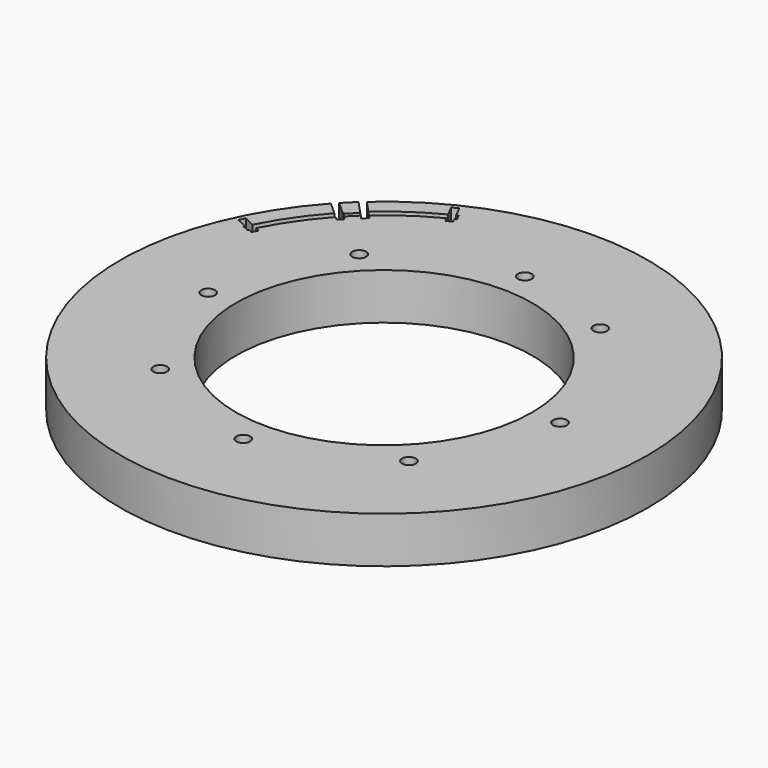
from build123d import *

# Parameters (mm, degrees)
CYLINDER2172_R               = 56
CYLINDER2172_DEPTH           = 7
CYLINDER2171_R               = 51
CYLINDER2171_DEPTH           = 7
BOX1045_W                    = 1.4
BOX1045_H                    = 60
BOX1045_DEPTH                = 7
BOX1045_PLACEMENT_ANGLE      = 19.7
BOX1044_W                    = 1.4
BOX1044_H                    = 60
BOX1044_DEPTH                = 7
BOX1044_PLACEMENT_ANGLE      = 18
CUT727_PLACEMENT_ANGLE       = 45
BOX1038_W                    = 60
BOX1038_H                    = 60
BOX1038_DEPTH                = 7
BOX1038_PLACEMENT_ANGLE      = 1
BOX1036_W                    = 60
BOX1036_H                    = 60
BOX1036_DEPTH                = 7
BOX1036_PLACEMENT_ANGLE      = 2
BOX1043_W                    = 120
BOX1043_H                    = 60
BOX1043_DEPTH                = 7
TUBE090_R                    = 54.4
TUBE090_R_2                  = 53
TUBE090_DEPTH                = 7
BOX1041_W                    = 60
BOX1041_H                    = 60
BOX1041_DEPTH                = 7
BOX1041_PLACEMENT_ANGLE      = 20
BOX1039_W                    = 60
BOX1039_H                    = 60
BOX1039_DEPTH                = 7
BOX1039_PLACEMENT_ANGLE      = 20
BOX1037_W                    = 120
BOX1037_H                    = 60
BOX1037_DEPTH                = 7
TUBE091_R                    = 53.4
TUBE091_R_2                  = 52
TUBE091_DEPTH                = 7
CUT721_PLACEMENT_ANGLE       = 45
CYLINDER2170_R               = 51
CYLINDER2170_DEPTH           = 7
BOX1042_W                    = 1.4
BOX1042_H                    = 60
BOX1042_DEPTH                = 7
BOX1042_PLACEMENT_ANGLE      = 2.7
BOX1040_W                    = 1.4
BOX1040_H                    = 60
BOX1040_DEPTH                = 7
BOX1040_PLACEMENT_ANGLE      = 2
CUT722_PLACEMENT_ANGLE       = 45
CYLINDER2129_R               = 1.5
CYLINDER2129_DEPTH           = 100
CYLINDER2130_R               = 1.5
CYLINDER2130_DEPTH           = 100
CYLINDER2130_PLACEMENT_ANGLE = 145
CYLINDER2131_R               = 1.5
CYLINDER2131_DEPTH           = 100
CYLINDER2132_R               = 1.5
CYLINDER2132_DEPTH           = 100
CYLINDER2132_PLACEMENT_ANGLE = 225
CYLINDER2133_R               = 1.5
CYLINDER2133_DEPTH           = 100
CYLINDER2134_R               = 1.5
CYLINDER2134_DEPTH           = 100
CYLINDER2134_PLACEMENT_ANGLE = 45
CYLINDER2127_R               = 1.5
CYLINDER2127_DEPTH           = 100
CYLINDER2128_R               = 1.5
CYLINDER2128_DEPTH           = 100
CYLINDER2128_PLACEMENT_ANGLE = 45
TUBE092_R                    = 57
TUBE092_R_2                  = 32
TUBE092_DEPTH                = 10


with BuildPart() as obj1:
    # Cylinder2172 → Cylinder2172 (new body)
    with BuildSketch(Plane.XY.offset(45)):
        Circle(CYLINDER2172_R)
    extrude(amount=CYLINDER2172_DEPTH)


with BuildPart() as obj2:
    # Cylinder2171 → Cylinder2171 (new body)
    with BuildSketch(Plane.XY.offset(-22)):
        Circle(CYLINDER2171_R)
    extrude(amount=CYLINDER2171_DEPTH)


with BuildPart() as krychle1045:
    # Box1045 → Box1045 (new body)
    with BuildSketch(Plane.XY):
        with Locations((0.7, 30)):
            Rectangle(BOX1045_W, BOX1045_H)
    extrude(amount=BOX1045_DEPTH)


with BuildPart() as krychle1045_1:
    # Box1045 placement: moved
    add(krychle1045.part.moved(Location((0, 0, -22))).rotate(Axis((0, 0, -22), (0, 0, 1)), BOX1045_PLACEMENT_ANGLE))


with BuildPart() as common:
    # Box1044 → Box1044 (new body)
    with BuildSketch(Plane.XY):
        with Locations((0.7, 30)):
            Rectangle(BOX1044_W, BOX1044_H)
    extrude(amount=BOX1044_DEPTH)


with BuildPart() as common_1:
    # Box1044 placement: moved
    add(common.part.moved(Location((0, 0, -22))).rotate(Axis((0, 0, -22), (0, 0, -1)), BOX1044_PLACEMENT_ANGLE))

    # Compound1133: union Krychle1045
    add(krychle1045_1.part)

    # Cut727: cut obj2
    add(obj2.part, mode=Mode.SUBTRACT)


with BuildPart() as common_2:
    # Cut727 placement: moved
    add(common_1.part.moved(Location((0, 0, 67))).rotate(Axis((0, 0, 67), (0, 0, 1)), CUT727_PLACEMENT_ANGLE))

    # Common: intersect obj1
    add(obj1.part, mode=Mode.INTERSECT)


with BuildPart() as krychle1038:
    # Box1038 → Box1038 (new body)
    with BuildSketch(Plane.XY):
        with Locations((30, 30)):
            Rectangle(BOX1038_W, BOX1038_H)
    extrude(amount=BOX1038_DEPTH)


with BuildPart() as krychle1038_1:
    # Box1038 placement: moved
    add(krychle1038.part.moved(Location((-59.990862, -1.047144, -22))).rotate(Axis((-59.990862, -1.047144, -22), (0, 0, 1)), BOX1038_PLACEMENT_ANGLE))


with BuildPart() as compound1130:
    # Box1036 → Box1036 (new body)
    with BuildSketch(Plane.XY):
        with Locations((30, 30)):
            Rectangle(BOX1036_W, BOX1036_H)
    extrude(amount=BOX1036_DEPTH)


with BuildPart() as compound1130_1:
    # Box1036 placement: moved
    add(compound1130.part.moved(Location((0, 0, -22))).rotate(Axis((0, 0, -22), (0, 0, -1)), BOX1036_PLACEMENT_ANGLE))

    # Compound1130: union Krychle1038
    add(krychle1038_1.part)


with BuildPart() as krychle1043:
    # Box1043 → Box1043 (new body)
    with BuildSketch(Plane(origin=(-60, -60, -22), x_dir=(1, 0, 0), z_dir=(0, 0, 1))):
        with Locations((60, 30)):
            Rectangle(BOX1043_W, BOX1043_H)
    extrude(amount=BOX1043_DEPTH)


with BuildPart() as cut723:
    # Tube090 → Tube090 (new body)
    with BuildSketch(Plane.XY.offset(-22)):
        Circle(TUBE090_R)
        Circle(TUBE090_R_2, mode=Mode.SUBTRACT)
    extrude(amount=TUBE090_DEPTH)

    # Cut726: cut Krychle1043
    add(krychle1043.part, mode=Mode.SUBTRACT)

    # Cut723: cut Compound1130
    add(compound1130_1.part, mode=Mode.SUBTRACT)


with BuildPart() as cut723_1:
    # Cut723 placement: moved
    add(cut723.part.moved(Location((0, 0, -7))))


with BuildPart() as krychle1041:
    # Box1041 → Box1041 (new body)
    with BuildSketch(Plane.XY):
        with Locations((30, 30)):
            Rectangle(BOX1041_W, BOX1041_H)
    extrude(amount=BOX1041_DEPTH)


with BuildPart() as krychle1041_1:
    # Box1041 placement: moved
    add(krychle1041.part.moved(Location((-56.381557, -20.521209, -22))).rotate(Axis((-56.381557, -20.521209, -22), (0, 0, 1)), BOX1041_PLACEMENT_ANGLE))


with BuildPart() as compound1129:
    # Box1039 → Box1039 (new body)
    with BuildSketch(Plane.XY):
        with Locations((30, 30)):
            Rectangle(BOX1039_W, BOX1039_H)
    extrude(amount=BOX1039_DEPTH)


with BuildPart() as compound1129_1:
    # Box1039 placement: moved
    add(compound1129.part.moved(Location((0, 0, -22))).rotate(Axis((0, 0, -22), (0, 0, -1)), BOX1039_PLACEMENT_ANGLE))

    # Compound1129: union Krychle1041
    add(krychle1041_1.part)


with BuildPart() as krychle1037:
    # Box1037 → Box1037 (new body)
    with BuildSketch(Plane(origin=(-60, -60, -22), x_dir=(1, 0, 0), z_dir=(0, 0, 1))):
        with Locations((60, 30)):
            Rectangle(BOX1037_W, BOX1037_H)
    extrude(amount=BOX1037_DEPTH)


with BuildPart() as cut721:
    # Tube091 → Tube091 (new body)
    with BuildSketch(Plane.XY.offset(-22)):
        Circle(TUBE091_R)
        Circle(TUBE091_R_2, mode=Mode.SUBTRACT)
    extrude(amount=TUBE091_DEPTH)

    # Cut718: cut Krychle1037
    add(krychle1037.part, mode=Mode.SUBTRACT)

    # Cut724: cut Compound1129
    add(compound1129_1.part, mode=Mode.SUBTRACT)


with BuildPart() as cut721_1:
    # Cut724 placement: moved
    add(cut721.part.moved(Location((0, 0, -7))))

    # Cut721: cut Cut723
    add(cut723_1.part, mode=Mode.SUBTRACT)


with BuildPart() as cut721_2:
    # Cut721 placement: moved
    add(cut721_1.part.moved(Location((0, 0, 74))).rotate(Axis((0, 0, 74), (0, 0, 1)), CUT721_PLACEMENT_ANGLE))


with BuildPart() as obj3:
    # Cylinder2170 → Cylinder2170 (new body)
    with BuildSketch(Plane.XY.offset(-22)):
        Circle(CYLINDER2170_R)
    extrude(amount=CYLINDER2170_DEPTH)


with BuildPart() as krychle1042:
    # Box1042 → Box1042 (new body)
    with BuildSketch(Plane.XY):
        with Locations((0.7, 30)):
            Rectangle(BOX1042_W, BOX1042_H)
    extrude(amount=BOX1042_DEPTH)


with BuildPart() as krychle1042_1:
    # Box1042 placement: moved
    add(krychle1042.part.moved(Location((0, 0, -22))).rotate(Axis((0, 0, -22), (0, 0, 1)), BOX1042_PLACEMENT_ANGLE))


with BuildPart() as cut722:
    # Box1040 → Box1040 (new body)
    with BuildSketch(Plane.XY):
        with Locations((0.7, 30)):
            Rectangle(BOX1040_W, BOX1040_H)
    extrude(amount=BOX1040_DEPTH)


with BuildPart() as cut722_1:
    # Box1040 placement: moved
    add(cut722.part.moved(Location((0, 0, -22))).rotate(Axis((0, 0, -22), (0, 0, -1)), BOX1040_PLACEMENT_ANGLE))

    # Compound1131: union Krychle1042
    add(krychle1042_1.part)

    # Cut722: cut obj3
    add(obj3.part, mode=Mode.SUBTRACT)


with BuildPart() as cut722_2:
    # Cut722 placement: moved
    add(cut722_1.part.moved(Location((0, 0, 67))).rotate(Axis((0, 0, 67), (0, 0, 1)), CUT722_PLACEMENT_ANGLE))


with BuildPart() as obj4:
    # Cylinder2129 → Cylinder2129 (new body)
    with BuildSketch(Plane(origin=(38, 0, 0), x_dir=(0, 1, 0), z_dir=(0, 0, 1))):
        Circle(CYLINDER2129_R)
    extrude(amount=CYLINDER2129_DEPTH)


with BuildPart() as obj5:
    # Cylinder2130 → Cylinder2130 (new body)
    with BuildSketch(Plane.XY):
        Circle(CYLINDER2130_R)
    extrude(amount=CYLINDER2130_DEPTH)


with BuildPart() as obj5_1:
    # Cylinder2130 placement: moved
    add(obj5.part.moved(Location((21.795905, 31.127778, 0))).rotate(Axis((21.795905, 31.127778, 0), (0, 0, 1)), CYLINDER2130_PLACEMENT_ANGLE))


with BuildPart() as obj6:
    # Cylinder2131 → Cylinder2131 (new body)
    with BuildSketch(Plane(origin=(0, 38, 0), x_dir=(-1, 0, 0), z_dir=(0, 0, 1))):
        Circle(CYLINDER2131_R)
    extrude(amount=CYLINDER2131_DEPTH)


with BuildPart() as obj7:
    # Cylinder2132 → Cylinder2132 (new body)
    with BuildSketch(Plane.XY):
        Circle(CYLINDER2132_R)
    extrude(amount=CYLINDER2132_DEPTH)


with BuildPart() as obj7_1:
    # Cylinder2132 placement: moved
    add(obj7.part.moved(Location((-26.870058, 26.870058, 0))).rotate(Axis((-26.870058, 26.870058, 0), (0, 0, 1)), CYLINDER2132_PLACEMENT_ANGLE))


with BuildPart() as obj8:
    # Cylinder2133 → Cylinder2133 (new body)
    with BuildSketch(Plane(origin=(-38, 0, 0), x_dir=(0, -1, 0), z_dir=(0, 0, 1))):
        Circle(CYLINDER2133_R)
    extrude(amount=CYLINDER2133_DEPTH)


with BuildPart() as obj9:
    # Cylinder2134 → Cylinder2134 (new body)
    with BuildSketch(Plane.XY):
        Circle(CYLINDER2134_R)
    extrude(amount=CYLINDER2134_DEPTH)


with BuildPart() as obj9_1:
    # Cylinder2134 placement: moved
    add(obj9.part.moved(Location((-26.870058, -26.870058, 0))).rotate(Axis((-26.870058, -26.870058, 0), (0, 0, -1)), CYLINDER2134_PLACEMENT_ANGLE))


with BuildPart() as obj10:
    # Cylinder2127 → Cylinder2127 (new body)
    with BuildSketch(Plane(origin=(0, -38, 0), x_dir=(1, 0, 0), z_dir=(0, 0, 1))):
        Circle(CYLINDER2127_R)
    extrude(amount=CYLINDER2127_DEPTH)


with BuildPart() as compound1132:
    # Cylinder2128 → Cylinder2128 (new body)
    with BuildSketch(Plane.XY):
        Circle(CYLINDER2128_R)
    extrude(amount=CYLINDER2128_DEPTH)


with BuildPart() as compound1132_1:
    # Cylinder2128 placement: moved
    add(compound1132.part.moved(Location((26.870058, -26.870058, 0))).rotate(Axis((26.870058, -26.870058, 0), (0, 0, 1)), CYLINDER2128_PLACEMENT_ANGLE))

    # Compound1132: union obj4, obj5, obj6, obj7, obj8, obj9, obj10
    add(obj4.part)
    add(obj5_1.part)
    add(obj6.part)
    add(obj7_1.part)
    add(obj8.part)
    add(obj9_1.part)
    add(obj10.part)


with BuildPart() as cut728:
    # Tube092 → Tube092 (new body)
    with BuildSketch(Plane.XY.offset(42)):
        Circle(TUBE092_R)
        Circle(TUBE092_R_2, mode=Mode.SUBTRACT)
    extrude(amount=TUBE092_DEPTH)

    # Cut725: cut Compound1132
    add(compound1132_1.part, mode=Mode.SUBTRACT)

    # Cut719: cut Cut722
    add(cut722_2.part, mode=Mode.SUBTRACT)

    # Cut720: cut Cut721
    add(cut721_2.part, mode=Mode.SUBTRACT)

    # Cut728: cut Common
    add(common_2.part, mode=Mode.SUBTRACT)


solid = cut728.part
